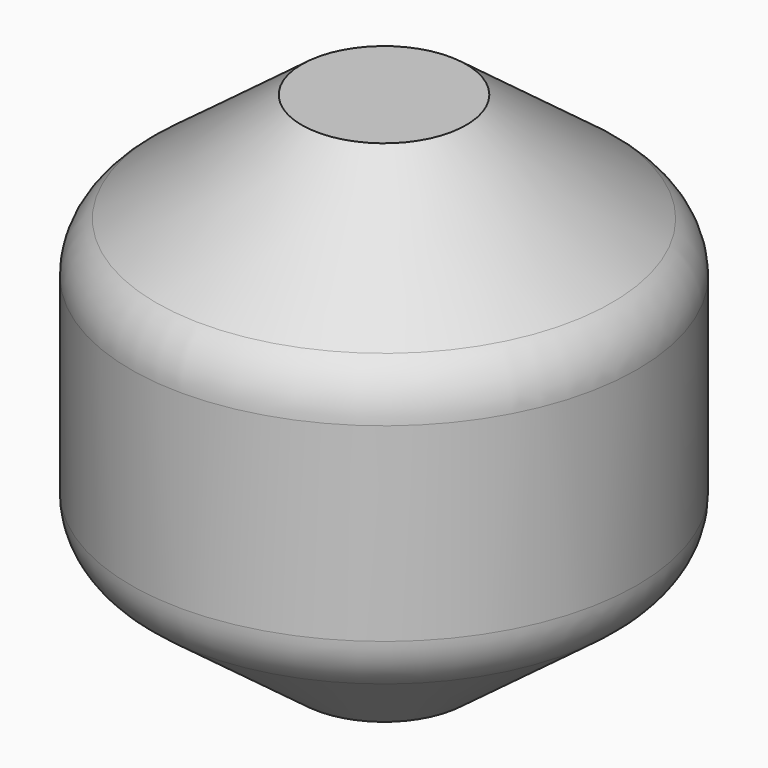
from build123d import *


with BuildPart() as f1:
    # F0 (on Front) → F1 (revolve)
    with BuildSketch(Plane.XZ):
        with BuildLine():
            ThreePointArc((-91.44, 58.42), (-98.918451, 49.459225), (-101.6, 38.1))
            Line((-101.6, 38.1), (-101.6, -38.1))
            ThreePointArc((-101.6, -38.1), (-98.918451, -49.459225), (-91.44, -58.42))
            Line((-91.44, -58.42), (-33.02, -102.235))
            Line((-33.02, -102.235), (0, -102.235))
            Line((0, -102.235), (0, 102.235))
            Line((0, 102.235), (-33.02, 102.235))
            Line((-33.02, 102.235), (-91.44, 58.42))
        make_face()
        with BuildLine():
            ThreePointArc((-91.44, 58.42), (-98.918451, 49.459225), (-101.6, 38.1))
            Line((-101.6, 38.1), (-101.6, -38.1))
            ThreePointArc((-101.6, -38.1), (-98.918451, -49.459225), (-91.44, -58.42))
            Line((-91.44, -58.42), (-33.02, -102.235))
            Line((-33.02, -102.235), (0, -102.235))
            Line((0, -102.235), (0, 102.235))
            Line((0, 102.235), (-33.02, 102.235))
            Line((-33.02, 102.235), (-91.44, 58.42))
        make_face()
        with BuildLine():
            ThreePointArc((-91.44, 58.42), (-98.918451, 49.459225), (-101.6, 38.1))
            Line((-101.6, 38.1), (-101.6, -38.1))
            ThreePointArc((-101.6, -38.1), (-98.918451, -49.459225), (-91.44, -58.42))
            Line((-91.44, -58.42), (-33.02, -102.235))
            Line((-33.02, -102.235), (0, -102.235))
            Line((0, -102.235), (0, 102.235))
            Line((0, 102.235), (-33.02, 102.235))
            Line((-33.02, 102.235), (-91.44, 58.42))
        make_face()
    revolve(axis=Axis((0, 0, 4.563034), (0, 0, -1)))


solid = f1.part
